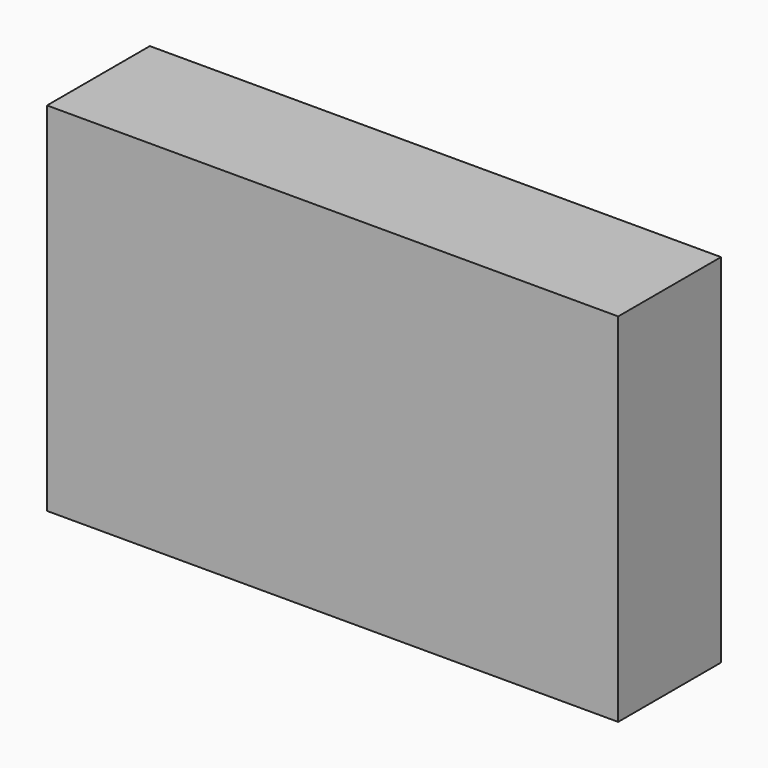
from build123d import *

# Parameters (mm, degrees)
F1_W     = 40
F1_H     = 25
F2_DEPTH = 9
F3_R     = 3.5
F4_DEPTH = 10


with BuildPart() as f2:
    # F1 (on offset) → F2 (new body)
    with BuildSketch(Plane.XZ.offset(25.4)):
        with Locations((5.24673, 9.208916)):
            Rectangle(F1_W, F1_H)
    extrude(amount=F2_DEPTH)

    # F3 (on face) → F4 (cut)
    with BuildSketch(Plane(origin=(0, 0, -3.291084), x_dir=(1, 0, 0), z_dir=(0, 0, -1))):
        with Locations((19.24673, 29.9)):
            Circle(F3_R)
        with Locations((-8.75327, 29.9)):
            Circle(F3_R)
    extrude(amount=-F4_DEPTH, mode=Mode.SUBTRACT)


solid = f2.part
